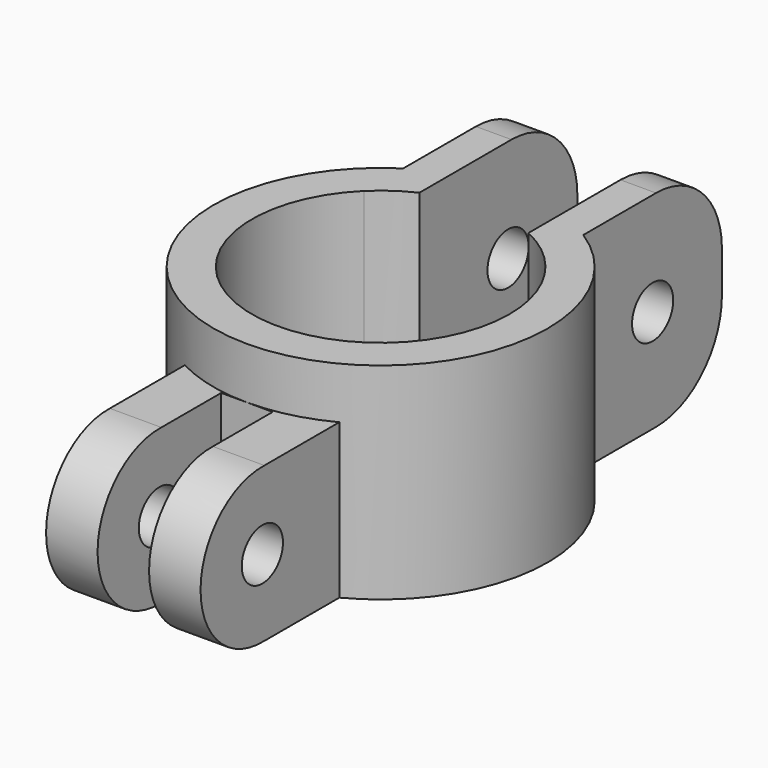
from build123d import *

# Parameters (mm, degrees)
F2_DEPTH  = 12.7
F1_R      = 1.5875
F3_DEPTH  = 4.7625
F4_R      = 1.5875
F5_DEPTH  = 15.859309
F9_W      = 1.5875
F9_H      = 9.525
F10_DEPTH = 25.4
F12_R     = 5.08


with BuildPart() as f2:
    # F0 (on Top) → F2 (new body)
    with BuildSketch(Plane.XY):
        with BuildLine():
            Line((-5.552635, 5.67205), (-5.552635, 8.681886))
            ThreePointArc((-5.552635, 8.681886), (0, -10.305673), (5.552635, 8.681886))
            Line((5.552635, 8.681886), (5.552635, 5.67205))
            ThreePointArc((5.552635, 5.67205), (7.317033, 3.076513), (7.9375, 0))
            ThreePointArc((7.9375, 0), (-3.076513, -7.317033), (-5.552635, 5.67205))
        make_face()
        with BuildLine():
            Line((-5.552635, 19.361428), (-5.552635, 8.681886))
            Line((-5.552635, 8.681886), (-5.552635, 5.67205))
            ThreePointArc((-5.552635, 5.67205), (-4.520661, 6.52438), (-3.360147, 7.191197))
            Line((-3.360147, 7.191197), (-3.360147, 19.361428))
            Line((-3.360147, 19.361428), (-5.552635, 19.361428))
        make_face()
        with BuildLine():
            Line((5.552635, 5.67205), (5.552635, 8.681886))
            Line((5.552635, 8.681886), (5.552635, 19.361428))
            Line((5.552635, 19.361428), (3.360147, 19.361428))
            Line((3.360147, 19.361428), (3.360147, 7.191197))
            ThreePointArc((3.360147, 7.191197), (4.520661, 6.52438), (5.552635, 5.67205))
        make_face()
    extrude(amount=F2_DEPTH)

    # F1 (on Right) → F3 (join, symmetric)
    with BuildSketch(Plane.YZ):
        with BuildLine():
            Line((-7.938393, 9.522529), (-14.914774, 9.522529))
            ThreePointArc((-14.914774, 9.522529), (-19.830673, 4.7625), (-14.914774, 0.002471))
            Line((-14.914774, 0.002471), (-14.914774, 0))
            Line((-14.914774, 0), (-7.938393, 0))
            Line((-7.938393, 0), (-7.938393, 9.522529))
        make_face()
        with Locations((-15.068173, 4.7625)):
            Circle(F1_R, mode=Mode.SUBTRACT)
    extrude(amount=F3_DEPTH, both=True)

    # F4 (on face) → F5 (cut, through all)
    with BuildSketch(Plane.YZ.offset(5.552635)):
        with Locations((14.021657, 6.35)):
            Circle(F4_R)
    extrude(amount=-F5_DEPTH, mode=Mode.SUBTRACT)


with BuildPart() as f6_1:
    # F6: copy of F2
    add(f2.part)


with BuildPart() as f8_1:
    # F8: copy of F2
    add(f2.part)


with BuildPart() as f10_tool:
    # F9 (on Top) → F10 (new body)
    with BuildSketch(Plane.XY):
        with Locations((0.79375, -15.068173)):
            Rectangle(F9_W, F9_H)
        with Locations((-0.79375, -15.068173)):
            Rectangle(F9_W, F9_H)
    extrude(amount=F10_DEPTH)


with BuildPart() as f2_1:
    add(f2.part)

    # F10: cut by f10_tool
    add(f10_tool.part, mode=Mode.SUBTRACT)


with BuildPart() as f8_1_1:
    add(f8_1.part)

    # F10: cut by f10_tool
    add(f10_tool.part, mode=Mode.SUBTRACT)

    # F12
    f12_edges = [f8_1_1.edges().sort_by_distance(p)[0] for p in [
        (-4.456391, 19.361428, 12.7),
        (4.456391, 19.361428, 12.7),
        (-4.456391, 19.361428, 0),
        (4.456391, 19.361428, 0),
    ]]
    fillet(f12_edges, radius=F12_R)


solid = f8_1_1.part
